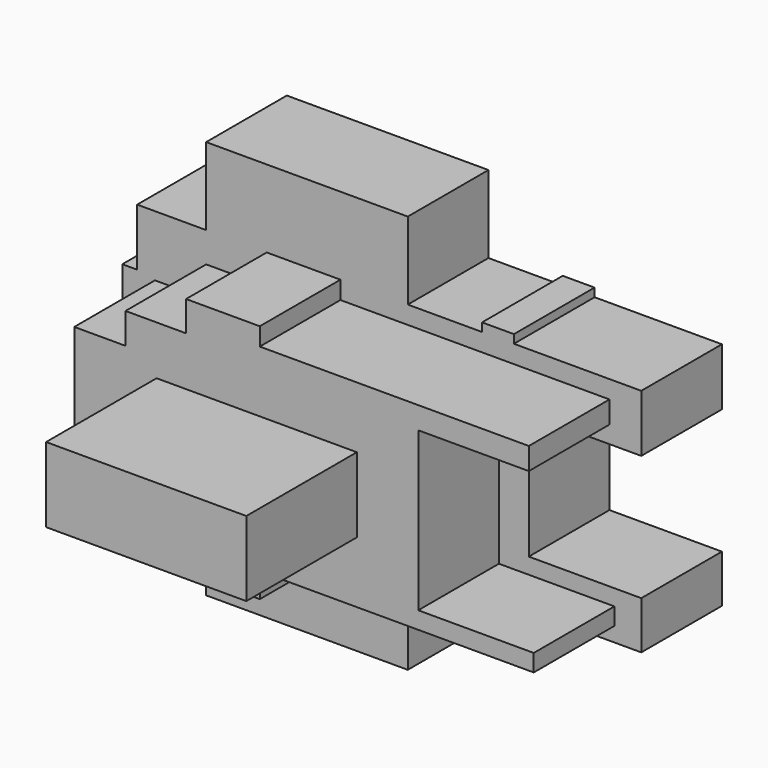
from build123d import *

# Parameters (mm, degrees)
F0_W     = 50.8
F0_H     = 19.5178945826
F0_H_2   = 14.4378958169
F0_W_2   = 18.715784845
F0_W_3   = 8.0210510887
F0_H_3   = 2.1389448998
F0_H_4   = 12.0315781759
F0_H_5   = 22.9936808162
F0_H_6   = 0.5347377678
F1_DEPTH = 25.4
F3_DEPTH = 25.4
F4_W     = 50.4511781037
F4_H     = 18.8805037178
F5_DEPTH = 34.798


with BuildPart() as f1:
    # F0 (on Front) → F1 (new body)
    with BuildSketch(Plane.XZ):
        with Locations((0.4468671068, 36.4022840108)):
            Rectangle(F0_W, F0_H)
        with Locations((0.4468671068, 19.4243888111)):
            Rectangle(F0_W, F0_H_2)
        Polygon((-24.9531328932, 12.2054409026), (-24.9531328932, 26.6433367195), (-42.332081033, 26.6433367195), (-42.332081033, 12.2054409026), (-46.0752392364, 12.2054409026), (-46.0752392364, -19.3440310844), (-42.332081033, -19.3440310844), (-42.332081033, -31.3756092603), (-24.9531328932, -31.3756092603), (-24.9531328932, -19.3440310844), (25.8468671068, -19.3440310844), (44.5626519519, -19.3440310844), (52.5837030406, -19.3440310844), (56.3268581581, -19.3440310844), (56.3268581581, 12.2054409026), (52.5837030406, 12.2054409026), (44.5626519519, 12.2054409026), (25.8468671068, 12.2054409026), align=None)
        with Locations((35.2047595293, 19.4243888111)):
            Rectangle(F0_W_2, F0_H_2)
        with Locations((48.5731774962, 19.4243888111)):
            Rectangle(F0_W_3, F0_H_2)
        with Locations((48.5731774962, 27.7128091694)):
            Rectangle(F0_W_3, F0_H_3)
        Polygon((84.667918967, 26.6433367195), (52.5837030406, 26.6433367195), (52.5837030406, 12.2054409026), (56.3268581581, 12.2054409026), (84.667918967, 12.2054409026), align=None)
        Polygon((84.667918967, -19.3440310844), (56.3268581581, -19.3440310844), (52.5837030406, -19.3440310844), (52.5837030406, -31.3756092603), (84.667918967, -31.3756092603), align=None)
        with Locations((48.5731774962, -25.3598201724)):
            Rectangle(F0_W_3, F0_H_4)
        with Locations((0.4468671068, -25.3598201724)):
            Rectangle(F0_W, F0_H_4)
        with Locations((0.4468671068, -42.8724496684)):
            Rectangle(F0_W, F0_H_5)
        with Locations((35.2047595293, -25.3598201724)):
            Rectangle(F0_W_2, F0_H_4)
        with Locations((48.5731774962, -31.6429781442)):
            Rectangle(F0_W_3, F0_H_6)
    extrude(amount=F1_DEPTH)

    # F2 (on face) → F3 (join)
    with BuildSketch(Plane.XZ.offset(25.4)):
        Polygon((8.8767074049, 26.6433367195), (-9.6942791715, 26.6433367195), (-9.6942791715, 19.0352611244), (-24.9531328932, 19.0352611244), (-24.9531328932, 11.2973507494), (-37.8602743149, 11.2973507494), (-37.8602743149, -12.8449322656), (-24.9531328932, -12.8449322656), (-24.9531328932, -20.2733278275), (-9.6942791715, -20.2733278275), (-9.6942791715, -33.8920503855), (8.8767074049, -33.8920503855), (8.8767074049, -27.701722458), (77.8988748789, -27.701722458), (77.8988748789, -23.3684927225), (48.8043278456, -23.3684927225), (48.8043278456, 16.5591295809), (76.6608119011, 16.5591295809), (76.6608119011, 22.1304260194), (8.8767074049, 22.1304260194), align=None)
    extrude(amount=F3_DEPTH)

    # F4 (on face) → F5 (join)
    with BuildSketch(Plane.XZ.offset(50.8)):
        with Locations((8.1029143184, -2.7856479865)):
            Rectangle(F4_W, F4_H)
    extrude(amount=F5_DEPTH)


solid = f1.part
